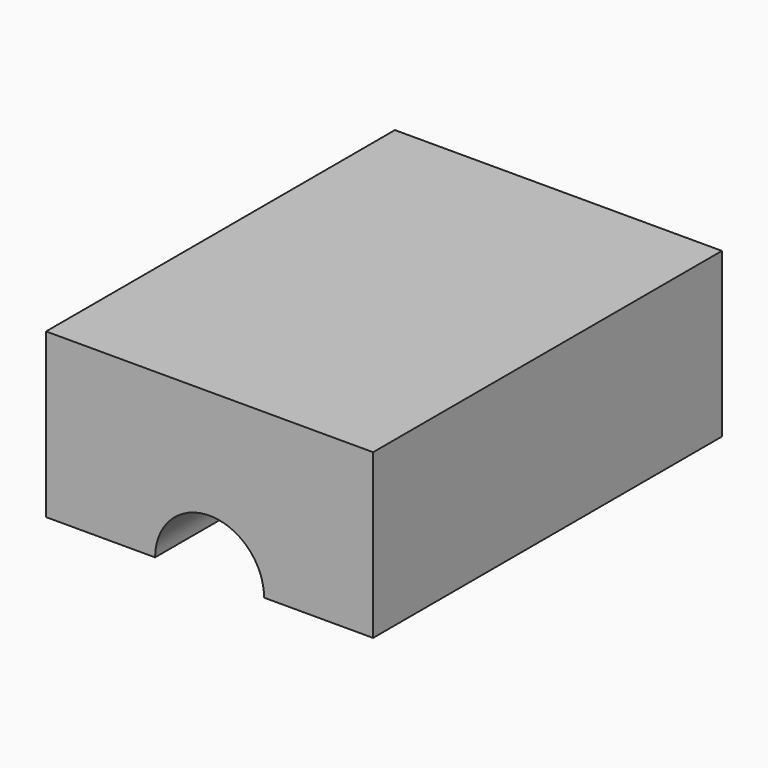
from build123d import *

# Parameters (mm, degrees)
F1_DEPTH = 406.4


with BuildPart() as f1:
    # F0 (on Front) → F1 (new body)
    with BuildSketch(Plane.XZ):
        with BuildLine():
            ThreePointArc((19, 47.113056), (42.106057, 28.420415), (50.8, 0))
            Line((50.8, 0), (152.4, 0))
            Line((152.4, 0), (152.4, 152.4))
            Line((152.4, 152.4), (-152.4, 152.4))
            Line((-152.4, 152.4), (-152.4, 0))
            Line((-152.4, 0), (-50.8, 0))
            ThreePointArc((-50.8, 0), (-42.106057, 28.420415), (-19, 47.113056))
            ThreePointArc((-19, 47.113056), (0, 50.8), (19, 47.113056))
        make_face()
    extrude(amount=F1_DEPTH)


solid = f1.part
